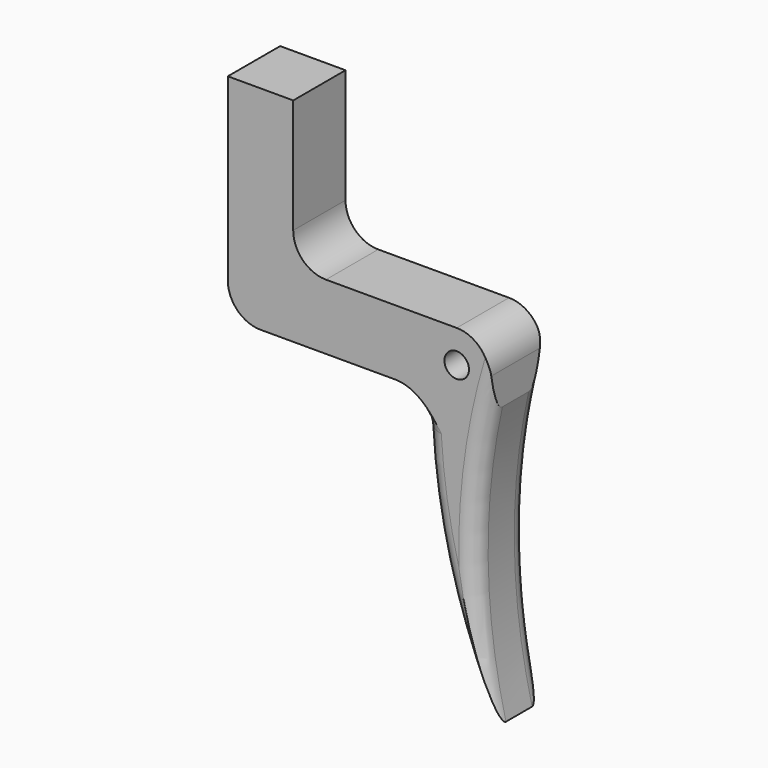
from build123d import *

# Parameters (mm, degrees)
F0_W     = 6.35
F0_H     = 14.2875
F1_DEPTH = 6.35
F2_D     = 2.38125
F2_DEPTH = 6.35
F2_TIP   = 0.7153996745
F3_R     = 1.5875
F4_R     = 3.175


with BuildPart() as f1:
    # F0 (on Front) → F1 (new body)
    with BuildSketch(Plane.XZ):
        with Locations((-7.7499226887, 10.31875)):
            Rectangle(F0_W, F0_H)
        Polygon((14.4750773113, -3.175), (14.4750773113, 3.175), (-4.5749226887, 3.175), (-10.9249226887, 3.175), (-10.9249226887, -3.175), (8.1250773113, -3.175), align=None)
        with BuildLine():
            ThreePointArc((14.8093424829, -29.9953674142), (13.0855162795, -16.6045849499), (14.4750773113, -3.175))
            Line((14.4750773113, -3.175), (8.1250773113, -3.175))
            ThreePointArc((8.1250773113, -3.175), (9.821316188, -16.995379057), (14.8093424829, -29.9953674142))
        make_face()
    extrude(amount=F1_DEPTH)

    # F2
    with Locations(Plane(origin=(0, 0, 0), x_dir=(1, 0, 0), z_dir=(0, 1, 0))):
        with Locations((11.3000773113, 0)):
            Hole(F2_D / 2, depth=F2_DEPTH)
            with Locations((0, 0, -(F2_DEPTH + F2_TIP / 2))):  # 118° drill point
                Cone(0, F2_D / 2, F2_TIP, mode=Mode.SUBTRACT)

    # F3
    f3_edges = [f1.edges().sort_by_distance(p)[0] for p in [
        (13.085516, -6.35, -16.604585),
        (9.821316, -6.35, -16.995379),
        (13.085516, 0, -16.604585),
        (9.821316, 0, -16.995379),
    ]]
    fillet(f3_edges, radius=F3_R)

    # F4
    f4_edges = [f1.edges().sort_by_distance(p)[0] for p in [
        (14.475077, -3.175, 3.175),
        (-10.924923, -3.175, -3.175),
        (-4.574923, -3.175, 3.175),
        (8.125077, -3.175, -3.175),
    ]]
    fillet(f4_edges, radius=F4_R)


solid = f1.part
